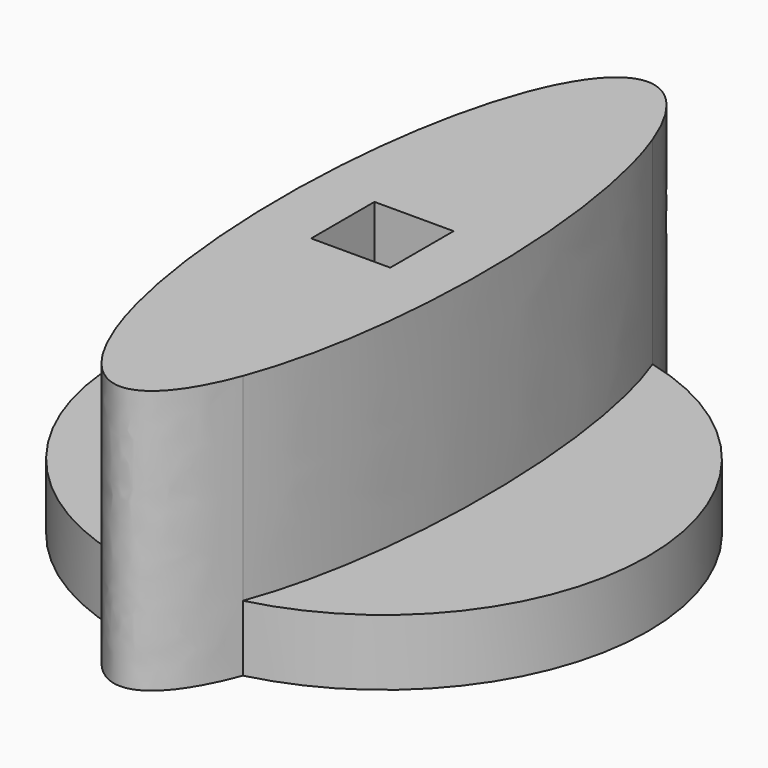
from build123d import *

# Parameters (mm, degrees)
F0_W     = 6
F0_H     = 6
F1_DEPTH = 20
F2_DEPTH = 5


with BuildPart() as f1:
    # F0 (on Top) → F1 (new body)
    with BuildSketch(Plane.XY):
        with BuildLine():
            add(Edge.make_bspline(
                [(0, 25), (-2.721114, 25), (-4.833477, 19.407151)],
                knots=[0, 0, 0, 0.682044, 0.682044, 0.682044], degree=2, weights=[1, 0.942413, 1]))
            add(Edge.make_bspline(
                [(-4.833477, 19.407151), (-12.163362, 0), (-4.833477, -19.407151)],
                knots=[0.682044, 0.682044, 0.682044, 2.459549, 2.459549, 2.459549], degree=2, weights=[1, 0.630381, 1]))
            add(Edge.make_bspline(
                [(-4.833477, -19.407151), (0, -32.204624), (4.833477, -19.407151)],
                knots=[2.459549, 2.459549, 2.459549, 3.823636, 3.823636, 3.823636], degree=2, weights=[1, 0.776286, 1]))
            add(Edge.make_bspline(
                [(4.833477, -19.407151), (12.163362, 0), (4.833477, 19.407151)],
                knots=[3.823636, 3.823636, 3.823636, 5.601142, 5.601142, 5.601142], degree=2, weights=[1, 0.630381, 1]))
            add(Edge.make_bspline(
                [(4.833477, 19.407151), (2.721114, 25), (0, 25)],
                knots=[5.601142, 5.601142, 5.601142, 6.283185, 6.283185, 6.283185], degree=2, weights=[1, 0.942413, 1]))
        make_face()
        with Locations((-0.022681, -0.126182)):
            Rectangle(F0_W, F0_H, mode=Mode.SUBTRACT)
    extrude(amount=F1_DEPTH)

    # F0 (on Top) → F2 (join)
    with BuildSketch(Plane.XY):
        with BuildLine():
            add(Edge.make_bspline(
                [(-4.833477, 19.407151), (-12.163362, 0), (-4.833477, -19.407151)],
                knots=[0.682044, 0.682044, 0.682044, 2.459549, 2.459549, 2.459549], degree=2, weights=[1, 0.630381, 1]))
            ThreePointArc((-4.833477, 19.407151), (-20, 0), (-4.833477, -19.407151))
        make_face()
        with BuildLine():
            add(Edge.make_bspline(
                [(0, 25), (-2.721114, 25), (-4.833477, 19.407151)],
                knots=[0, 0, 0, 0.682044, 0.682044, 0.682044], degree=2, weights=[1, 0.942413, 1]))
            add(Edge.make_bspline(
                [(-4.833477, 19.407151), (-12.163362, 0), (-4.833477, -19.407151)],
                knots=[0.682044, 0.682044, 0.682044, 2.459549, 2.459549, 2.459549], degree=2, weights=[1, 0.630381, 1]))
            add(Edge.make_bspline(
                [(-4.833477, -19.407151), (0, -32.204624), (4.833477, -19.407151)],
                knots=[2.459549, 2.459549, 2.459549, 3.823636, 3.823636, 3.823636], degree=2, weights=[1, 0.776286, 1]))
            add(Edge.make_bspline(
                [(4.833477, -19.407151), (12.163362, 0), (4.833477, 19.407151)],
                knots=[3.823636, 3.823636, 3.823636, 5.601142, 5.601142, 5.601142], degree=2, weights=[1, 0.630381, 1]))
            add(Edge.make_bspline(
                [(4.833477, 19.407151), (2.721114, 25), (0, 25)],
                knots=[5.601142, 5.601142, 5.601142, 6.283185, 6.283185, 6.283185], degree=2, weights=[1, 0.942413, 1]))
        make_face()
        with Locations((-0.022681, -0.126182)):
            Rectangle(F0_W, F0_H, mode=Mode.SUBTRACT)
        with BuildLine():
            add(Edge.make_bspline(
                [(4.833477, -19.407151), (12.163362, 0), (4.833477, 19.407151)],
                knots=[3.823636, 3.823636, 3.823636, 5.601142, 5.601142, 5.601142], degree=2, weights=[1, 0.630381, 1]))
            ThreePointArc((4.833477, -19.407151), (20, 0), (4.833477, 19.407151))
        make_face()
    extrude(amount=F2_DEPTH)


solid = f1.part
